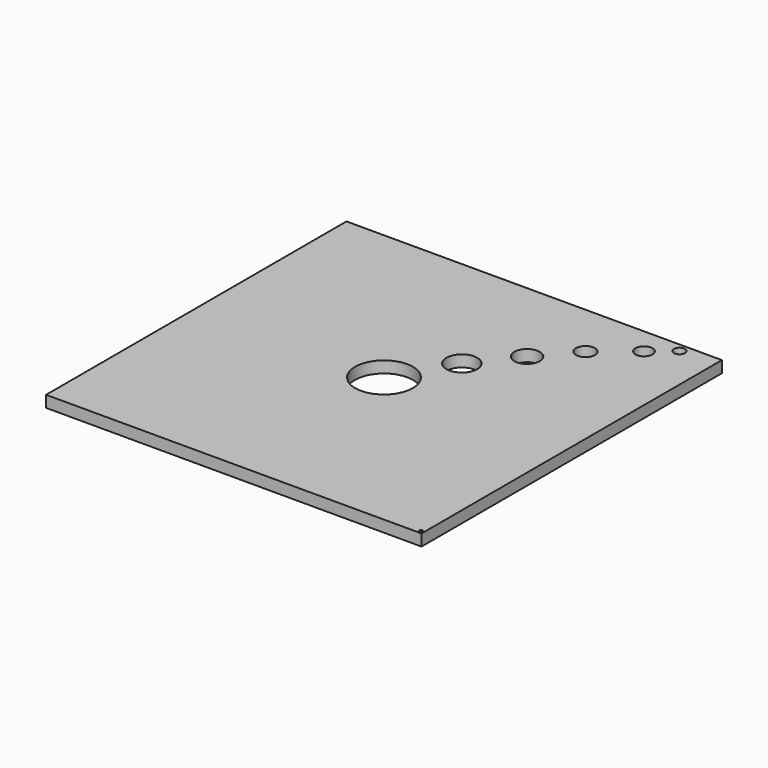
from build123d import *

# Parameters (mm, degrees)
F0_W       = 650
F0_H       = 650
F1_DEPTH   = 20
F2_R       = 50
F3_DEPTH   = 25
F4_R       = 26.673415
F9_DEPTH   = 25
F5_R       = 21.925408
F10_DEPTH  = 25
F6_R       = 16.384006
F11_DEPTH  = 25
F7_R       = 14.701481
F12_DEPTH  = 25
F8_R       = 9.686961
F13_DEPTH  = 25
F11_FACE_R = 16.384006
F14_DEPTH  = 50
F15_R      = 3
F16_DEPTH  = 25


with BuildPart() as f1:
    # F0 (on Top) → F1 (new body)
    with BuildSketch(Plane.XY):
        with Locations((325, -325)):
            Rectangle(F0_W, F0_H)
    extrude(amount=F1_DEPTH)

    # F2 (on face) → F3 (cut)
    with BuildSketch(Plane.XY.offset(20)):
        with Locations((325, -325)):
            Circle(F2_R)
    extrude(amount=-F3_DEPTH, mode=Mode.SUBTRACT)

    # F4 (on face) → F9 (cut)
    with BuildSketch(Plane.XY.offset(20)):
        with Locations((381.598979, -227.318332)):
            Circle(F4_R)
    extrude(amount=-F9_DEPTH, mode=Mode.SUBTRACT)

    # F5 (on face) → F10 (cut)
    with BuildSketch(Plane.XY.offset(20)):
        with Locations((437.728018, -156.280026)):
            Circle(F5_R)
    extrude(amount=-F10_DEPTH, mode=Mode.SUBTRACT)

    # F6 (on face) → F11 (join)
    with BuildSketch(Plane.XY.offset(20)):
        with Locations((490.348995, -95.765911)):
            Circle(F6_R)
    extrude(amount=F11_DEPTH)

    # F7 (on face) → F12 (cut)
    with BuildSketch(Plane.XY.offset(20)):
        with Locations((551.74011, -45.775995)):
            Circle(F7_R)
    extrude(amount=-F12_DEPTH, mode=Mode.SUBTRACT)

    # F8 (on face) → F13 (cut)
    with BuildSketch(Plane.XY.offset(20)):
        with Locations((588.574767, -15.080438)):
            Circle(F8_R)
    extrude(amount=-F13_DEPTH, mode=Mode.SUBTRACT)

    # F11_face (on face) → F14 (cut)
    with BuildSketch(Plane(origin=(490.348995, -95.765911, 45), x_dir=(1, 0, 0), z_dir=(0, 0, 1))):
        Circle(F11_FACE_R)
    extrude(amount=-F14_DEPTH, mode=Mode.SUBTRACT)

    # F15 (on face) → F16 (cut)
    with BuildSketch(Plane.XY.offset(20)):
        with Locations((645, -645)):
            Circle(F15_R)
    extrude(amount=-F16_DEPTH, mode=Mode.SUBTRACT)


solid = f1.part
